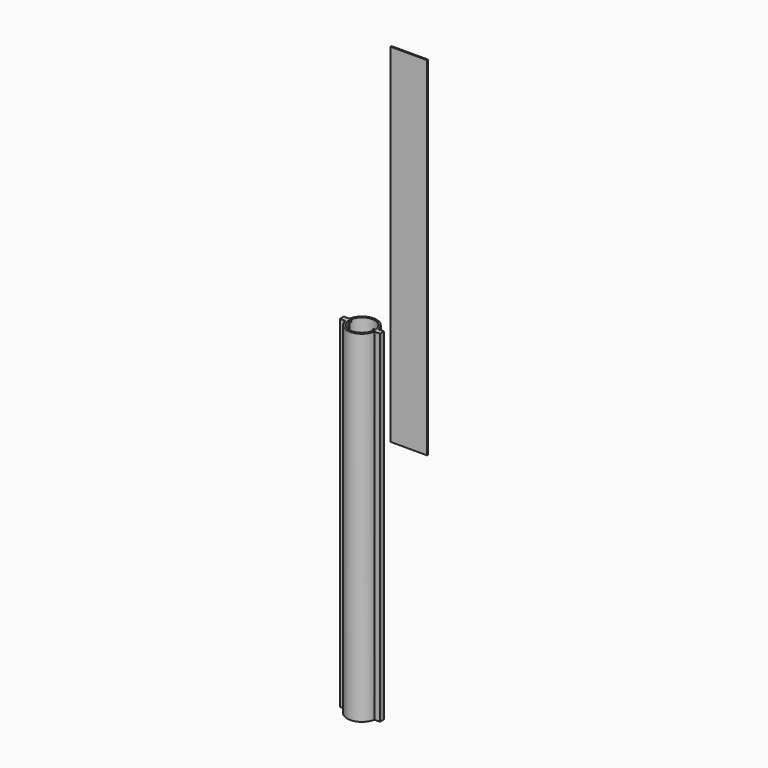
from build123d import *

# Parameters (mm, degrees)
F1_DEPTH  = 50.5
F2_W      = 20.5
F2_H      = 0.75
F3_DEPTH  = 195
F4_DEPTH  = 140
F5_DEPTH  = 1
F6_DEPTH  = 4
F7_DEPTH  = 4
F9_DEPTH  = 190.9
F11_DEPTH = 190.9


with BuildPart() as f1:
    # F0 (on Top) → F1 (new body)
    with BuildSketch(Plane.XY):
        with BuildLine():
            Line((-10.25, 0.4), (-8.2402973247, 0.4))
            ThreePointArc((-8.2402973247, 0.4), (-8.2005778814, 0.9016775541), (-8.1303443961, 1.4))
            Line((-8.1303443961, 1.4), (-11.25, 1.4))
            Line((-11.25, 1.4), (-11.25, -1.4))
            Line((-11.25, -1.4), (-8.1303443961, -1.4))
            ThreePointArc((-8.1303443961, -1.4), (-8.2005778814, -0.9016775541), (-8.2402973247, -0.4))
            Line((-8.2402973247, -0.4), (-10.25, -0.4))
            Line((-10.25, -0.4), (-10.25, 0.4))
        make_face()
        with BuildLine():
            ThreePointArc((-7.2389571072, 0.4), (0, 7.25), (7.2389571072, 0.4))
            Line((7.2389571072, 0.4), (8.2402973247, 0.4))
            ThreePointArc((8.2402973247, 0.4), (8.2005778814, 0.9016775541), (8.1303443961, 1.4))
            ThreePointArc((8.1303443961, 1.4), (0, 8.25), (-8.1303443961, 1.4))
            ThreePointArc((-8.1303443961, 1.4), (-8.2005778814, 0.9016775541), (-8.2402973247, 0.4))
            Line((-8.2402973247, 0.4), (-7.2389571072, 0.4))
        make_face()
        with BuildLine():
            Line((8.2402973247, -0.4), (7.2389571072, -0.4))
            ThreePointArc((7.2389571072, -0.4), (0, -7.25), (-7.2389571072, -0.4))
            Line((-7.2389571072, -0.4), (-8.2402973247, -0.4))
            ThreePointArc((-8.2402973247, -0.4), (-8.2005778814, -0.9016775541), (-8.1303443961, -1.4))
            ThreePointArc((-8.1303443961, -1.4), (0, -8.25), (8.1303443961, -1.4))
            ThreePointArc((8.1303443961, -1.4), (8.2005778814, -0.9016775541), (8.2402973247, -0.4))
        make_face()
        with BuildLine():
            ThreePointArc((8.1303443961, 1.4), (8.2005778814, 0.9016775541), (8.2402973247, 0.4))
            Line((8.2402973247, 0.4), (10.25, 0.4))
            Line((10.25, 0.4), (10.25, -0.4))
            Line((10.25, -0.4), (8.2402973247, -0.4))
            ThreePointArc((8.2402973247, -0.4), (8.2005778814, -0.9016775541), (8.1303443961, -1.4))
            Line((8.1303443961, -1.4), (11.25, -1.4))
            Line((11.25, -1.4), (11.25, 1.4))
            Line((11.25, 1.4), (8.1303443961, 1.4))
        make_face()
    extrude(amount=F1_DEPTH)

    # F4 (add): a face of the model
    f4_faces = [f1.faces().sort_by_distance(p)[0] for p in [
        (-10.5290161286, 0, 0),
    ]]
    extrude(f4_faces, amount=F4_DEPTH)

    # F5 (add): a face of the model
    f5_faces = [f1.faces().sort_by_distance(p)[0] for p in [
        (-10.5290161286, 0, 50.5),
    ]]
    extrude(f5_faces, amount=F5_DEPTH)

    # F6 (add): a face of the model
    f6_faces = [f1.faces().sort_by_distance(p)[0] for p in [
        (10.25, 0, -44.25),
    ]]
    extrude(f6_faces, amount=F6_DEPTH)

    # F7 (add): a face of the model
    f7_faces = [f1.faces().sort_by_distance(p)[0] for p in [
        (-10.25, 0, -44.25),
    ]]
    extrude(f7_faces, amount=F7_DEPTH)

    # F8 (on face) → F9 (cut)
    with BuildSketch(Plane(origin=(0, 0, -140), x_dir=(1, 0, 0), z_dir=(0, 0, -1))):
        with BuildLine():
            ThreePointArc((7.2389571072, -0.4), (7.2755886424, 0), (7.2389571072, 0.4))
            Line((7.2389571072, 0.4), (6.25, 0.4))
            Line((6.25, 0.4), (6.25, -0.4))
            Line((6.25, -0.4), (7.2389571072, -0.4))
        make_face()
        with BuildLine():
            Line((-6.25, 0.4), (-7.2389571072, 0.4))
            ThreePointArc((-7.2389571072, 0.4), (-7.2755886424, 0), (-7.2389571072, -0.4))
            Line((-7.2389571072, -0.4), (-6.25, -0.4))
            Line((-6.25, -0.4), (-6.25, 0.4))
        make_face()
    extrude(amount=-F9_DEPTH, mode=Mode.SUBTRACT)

    # F10 (on face) → F11 (cut)
    with BuildSketch(Plane(origin=(0, 0, -140), x_dir=(1, 0, 0), z_dir=(0, 0, -1))):
        with BuildLine():
            ThreePointArc((-7.2389571072, -0.4), (-7.2755886424, 0), (-7.2389571072, 0.4))
            Line((-7.2389571072, 0.4), (-10.25, 0.4))
            Line((-10.25, 0.4), (-10.25, -0.4))
            Line((-10.25, -0.4), (-7.2389571072, -0.4))
        make_face()
        with BuildLine():
            Line((10.25, 0.4), (7.2389571072, 0.4))
            ThreePointArc((7.2389571072, 0.4), (7.2755886424, 0), (7.2389571072, -0.4))
            Line((7.2389571072, -0.4), (10.25, -0.4))
            Line((10.25, -0.4), (10.25, 0.4))
        make_face()
    extrude(amount=-F11_DEPTH, mode=Mode.SUBTRACT)


with BuildPart() as f3:
    # F2 (on Top) → F3 (new body)
    with BuildSketch(Plane.XY):
        with Locations((27.3445195556, -0.9925236842)):
            Rectangle(F2_W, F2_H)
    extrude(amount=F3_DEPTH)


solid = Compound([f1.part, f3.part])
